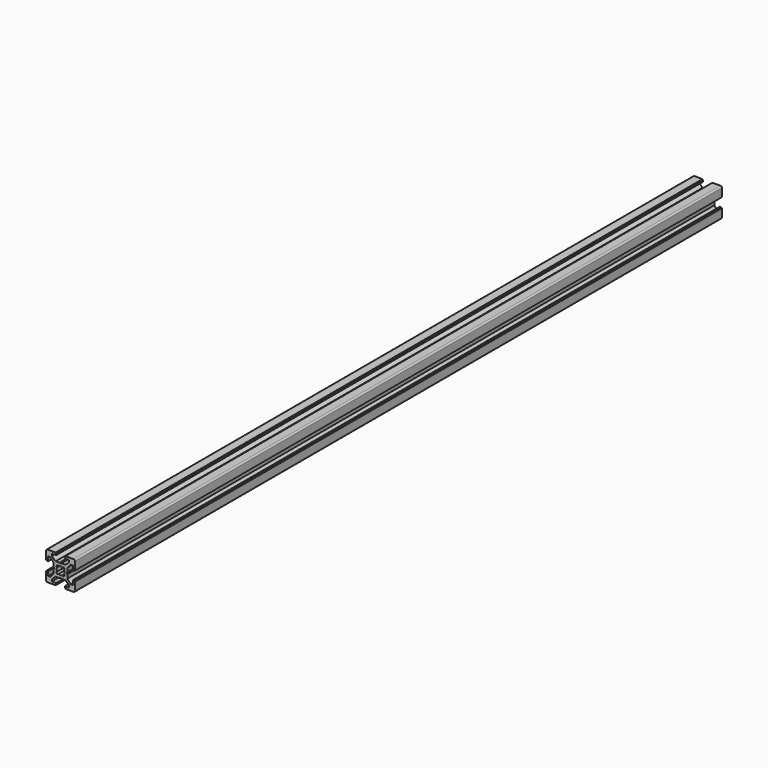
from build123d import *

# Parameters (mm, degrees)
PAD_DEPTH          = 560
POCKET_DEPTH       = 560
POLARPATTERN_COUNT = 4
POCKET001_DEPTH    = 560


with BuildPart() as part:
    # Sketch → Pad (new body)
    with BuildSketch(Plane.XZ):
        with BuildLine():
            Line((-9, 10), (9, 10))
            ThreePointArc((10, 9), (9.707107, 9.707107), (9, 10))
            Line((10, 9), (10, -9))
            ThreePointArc((9, -10), (9.707107, -9.707107), (10, -9))
            Line((9, -10), (-9, -10))
            ThreePointArc((-10, -9), (-9.707107, -9.707107), (-9, -10))
            Line((-10, -9), (-10, 9))
            ThreePointArc((-9, 10), (-9.707107, 9.707107), (-10, 9))
        make_face()
    extrude(amount=PAD_DEPTH)

    # Sketch001 (on Face10 of Pad) → Pocket (cut)
    with BuildSketch(Plane.XZ.offset(560)):
        Polygon((-3.4, 10), (-3.4, 9.6), (-3, 9.6), (-3, 8.5), (-6, 8.5), (-6, 7), (-3.35, 4.7), (-0.65, 4.7), (0, 4.3), (0.65, 4.7), (3.35, 4.7), (6, 7), (6, 8.5), (3, 8.5), (3, 9.6), (3.4, 9.6), (3.4, 10), align=None)
    pocket = extrude(amount=-POCKET_DEPTH, mode=Mode.SUBTRACT)

    # PolarPattern: Pocket ×4 about axis
    polarpattern_axis = Axis((0, -560, 0), (0, -1, 0))
    for i in range(1, POLARPATTERN_COUNT):
        add(pocket.rotate(polarpattern_axis, i * 360 / POLARPATTERN_COUNT), mode=Mode.SUBTRACT)

    # Sketch002 (on Face4 of PolarPattern) → Pocket001 (cut)
    with BuildSketch(Plane.XZ.offset(560)):
        with BuildLine():
            ThreePointArc((1.340499, 2.401159), (0, 2.75), (-1.340499, 2.401159))
            Line((-1.944544, 3.005204), (-1.340499, 2.401159))
            Line((-3.005204, 1.944544), (-1.944544, 3.005204))
            Line((-2.401159, 1.340499), (-3.005204, 1.944544))
            ThreePointArc((-2.401159, 1.340499), (-2.75, 0), (-2.401159, -1.340499))
            Line((-3.005204, -1.944544), (-2.401159, -1.340499))
            Line((-1.944544, -3.005204), (-3.005204, -1.944544))
            Line((-1.340499, -2.401159), (-1.944544, -3.005204))
            ThreePointArc((-1.340499, -2.401159), (0, -2.75), (1.340499, -2.401159))
            Line((1.944544, -3.005204), (1.340499, -2.401159))
            Line((3.005204, -1.944544), (1.944544, -3.005204))
            Line((2.401159, -1.340499), (3.005204, -1.944544))
            ThreePointArc((2.401159, -1.340499), (2.75, 0), (2.401159, 1.340499))
            Line((2.401159, 1.340499), (3.005204, 1.944544))
            Line((3.005204, 1.944544), (1.944544, 3.005204))
            Line((1.944544, 3.005204), (1.340499, 2.401159))
        make_face()
    extrude(amount=-POCKET001_DEPTH, mode=Mode.SUBTRACT)


solid = part.part
